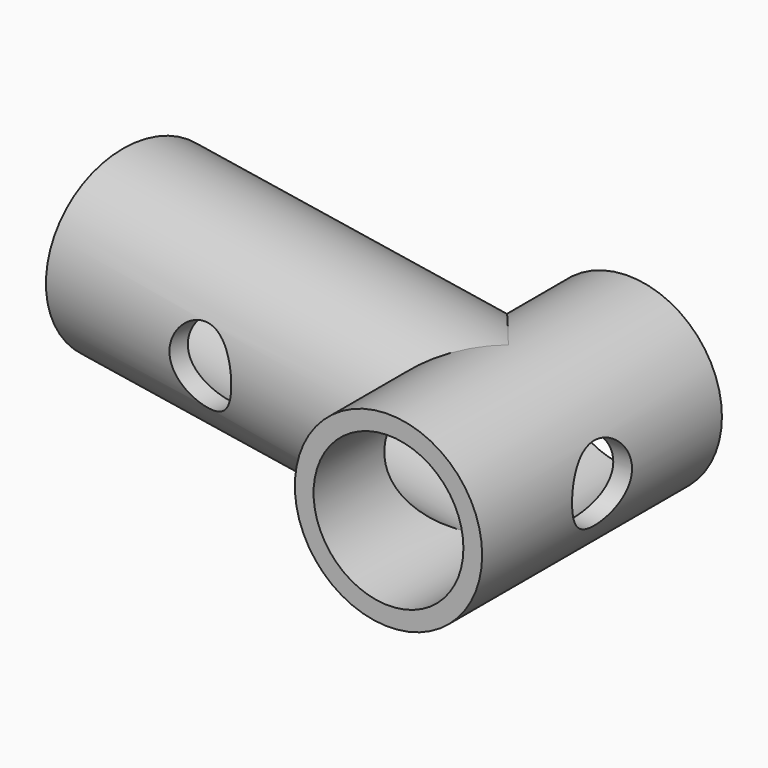
from build123d import *

# Parameters (mm, degrees)
F0_R      = 12.5
F0_R_2    = 10
F1_DEPTH  = 20
F4_R      = 12.5
F4_R_2    = 10
F5_DEPTH  = 50
F6_R      = 10
F7_DEPTH  = 25
F8_R      = 10
F9_DEPTH  = 25
F10_R     = 5
F11_DEPTH = 25
F13_R     = 5
F14_DEPTH = 15
F15_DEPTH = 10


with BuildPart() as f1:
    # F0 (on Front) → F1 (new body, symmetric)
    with BuildSketch(Plane.XZ):
        Circle(F0_R)
        Circle(F0_R_2, mode=Mode.SUBTRACT)
    extrude(amount=F1_DEPTH, both=True)

    # F4 (on line) → F5 (join)
    with BuildSketch(Plane(origin=(0, 0, 0), x_dir=(0.1952614984, 0.9807512158, 0), z_dir=(0.9807512158, -0.1952614984, 0))):
        Circle(F4_R)
        Circle(F4_R_2, mode=Mode.SUBTRACT)
    extrude(amount=-F5_DEPTH)

    # F6 (on Front) → F7 (cut, symmetric)
    with BuildSketch(Plane.XZ):
        Circle(F6_R)
    extrude(amount=F7_DEPTH, both=True, mode=Mode.SUBTRACT)

    # F8 (on line) → F9 (cut)
    with BuildSketch(Plane(origin=(0, 0, 0), x_dir=(0.1952614984, 0.9807512158, 0), z_dir=(0.9807512158, -0.1952614984, 0))):
        Circle(F8_R)
    extrude(amount=-F9_DEPTH, mode=Mode.SUBTRACT)

    # F10 (on Right) → F11 (cut)
    with BuildSketch(Plane.YZ):
        Circle(F10_R)
    extrude(amount=F11_DEPTH, mode=Mode.SUBTRACT)

    # F13 (on face) → F14 (cut, symmetric)
    with BuildSketch(Plane(origin=(0, 0, 0), x_dir=(-0.9807512158, 0.1952614984, 0), z_dir=(0.1952614984, 0.9807512158, 0))):
        with Locations((35, 0)):
            Circle(F13_R)
    extrude(amount=F14_DEPTH, both=True, mode=Mode.SUBTRACT)

    # F15 (add): a face of the model
    f15_faces = [f1.faces().sort_by_distance(p)[0] for p in [
        (-51.4092941538, -2.1495673612, 0),
    ]]
    extrude(f15_faces, amount=F15_DEPTH)


solid = f1.part
